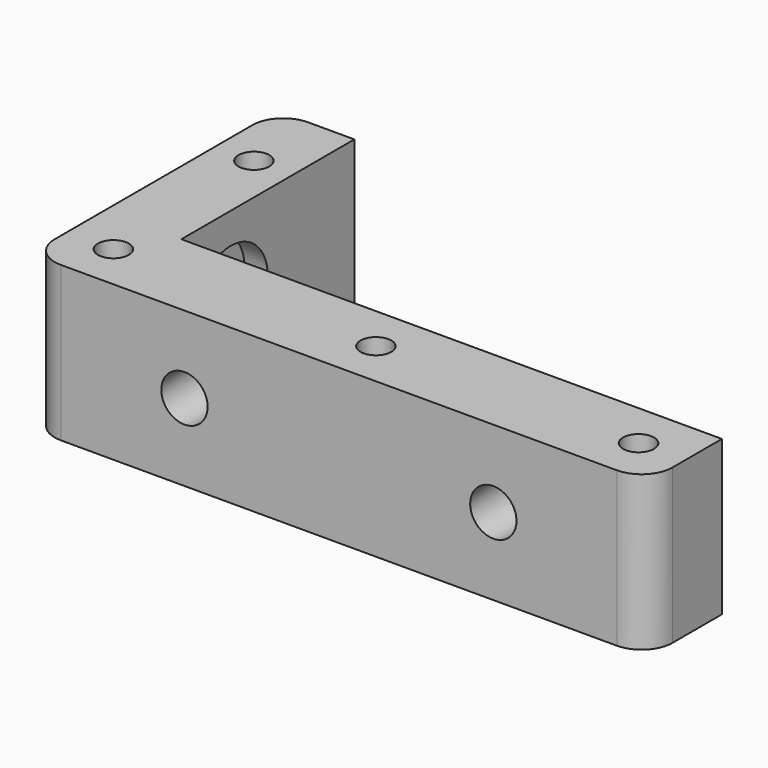
from build123d import *

# Parameters (mm, degrees)
SKETCH_R        = 2
PAD_DEPTH       = 20
FILLET_R        = 4
FILLET001_R     = 4
FILLET002_R     = 4
SKETCH001_R     = 3
POCKET_DEPTH    = 11
SKETCH002_R     = 3
POCKET001_DEPTH = 13
SKETCH003_R     = 6
POCKET002_DEPTH = 3
SKETCH004_R     = 6
POCKET003_DEPTH = 5


with BuildPart() as part:
    # Sketch → Pad (new body)
    with BuildSketch(Plane.XY):
        Polygon((80, 0), (80, 12), (10, 12), (10, 40), (0, 40), (0, 0), align=None)
        with Locations((5, 30)):
            Circle(SKETCH_R, mode=Mode.SUBTRACT)
        with Locations((6, 6)):
            Circle(SKETCH_R, mode=Mode.SUBTRACT)
        with Locations((74, 6)):
            Circle(SKETCH_R, mode=Mode.SUBTRACT)
        with Locations((40, 6)):
            Circle(SKETCH_R, mode=Mode.SUBTRACT)
    extrude(amount=PAD_DEPTH)

    # Fillet
    fillet_edges = [part.edges().sort_by_distance(p)[0] for p in [
        (0, 40, 10),
    ]]
    fillet(fillet_edges, radius=FILLET_R)

    # Fillet001
    fillet001_edges = [part.edges().sort_by_distance(p)[0] for p in [
        (0, 0, 10),
    ]]
    fillet(fillet001_edges, radius=FILLET001_R)

    # Fillet002
    fillet002_edges = [part.edges().sort_by_distance(p)[0] for p in [
        (80, 0, 10),
    ]]
    fillet(fillet002_edges, radius=FILLET002_R)

    # Sketch001 → Pocket (cut)
    with BuildSketch(Plane.YZ.offset(10)):
        with Locations((20, 10)):
            Circle(SKETCH001_R)
    extrude(amount=-POCKET_DEPTH, mode=Mode.SUBTRACT)

    # Sketch002 → Pocket001 (cut)
    with BuildSketch(Plane(origin=(0, 12, 0), x_dir=(-1, 0, 0), z_dir=(0, 1, 0))):
        with Locations((-60, 10)):
            Circle(SKETCH002_R)
        with Locations((-20, 10)):
            Circle(SKETCH002_R)
    extrude(amount=-POCKET001_DEPTH, mode=Mode.SUBTRACT)

    # Sketch003 → Pocket002 (cut)
    with BuildSketch(Plane.YZ.offset(10)):
        with Locations((20, 10)):
            Circle(SKETCH003_R)
    extrude(amount=-POCKET002_DEPTH, mode=Mode.SUBTRACT)

    # Sketch004 → Pocket003 (cut)
    with BuildSketch(Plane(origin=(0, 12, 0), x_dir=(-1, 0, 0), z_dir=(0, 1, 0))):
        with Locations((-60, 10)):
            Circle(SKETCH004_R)
        with Locations((-20, 10)):
            Circle(SKETCH004_R)
    extrude(amount=-POCKET003_DEPTH, mode=Mode.SUBTRACT)


solid = part.part
